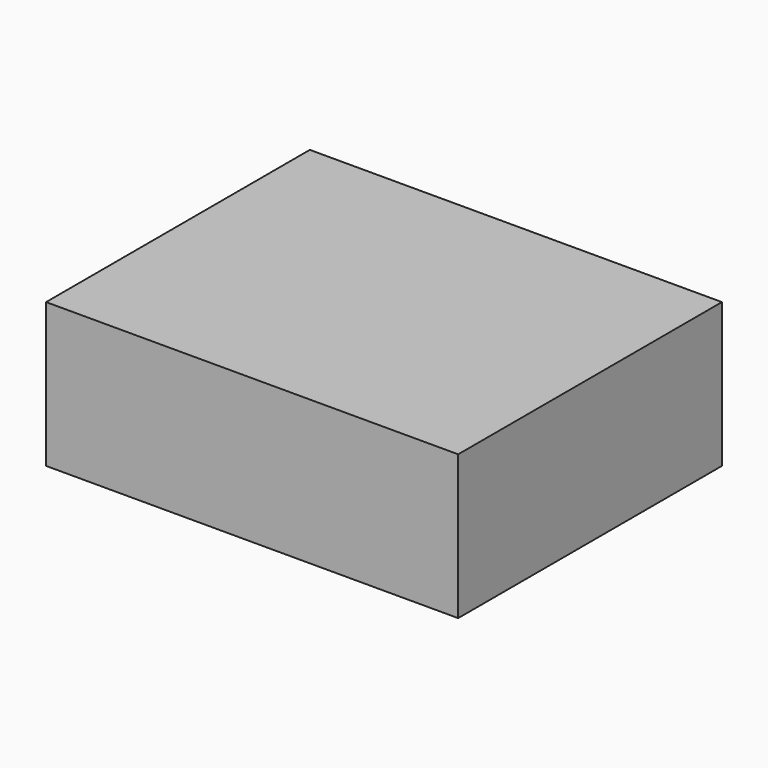
from build123d import *

# Parameters (mm, degrees)
F0_W     = 31.75
F0_H     = 11.1125
F1_DEPTH = 25.4
F3_DEPTH = 6.35


with BuildPart() as f1:
    # F0 (on Front) → F1 (new body)
    with BuildSketch(Plane.XZ):
        Rectangle(F0_W, F0_H)
    extrude(amount=F1_DEPTH)

    # F2 (on face) → F3 (cut)
    with BuildSketch(Plane(origin=(-15.875, 0, 0), x_dir=(0, -1, 0), z_dir=(-1, 0, 0))):
        with BuildLine():
            ThreePointArc((12.7, -1.5), (13.76066, -1.06066), (14.2, 0))
            ThreePointArc((14.2, 0), (11.63934, 1.06066), (12.7, -1.5))
        make_face()
    extrude(amount=-F3_DEPTH, mode=Mode.SUBTRACT)


solid = f1.part
